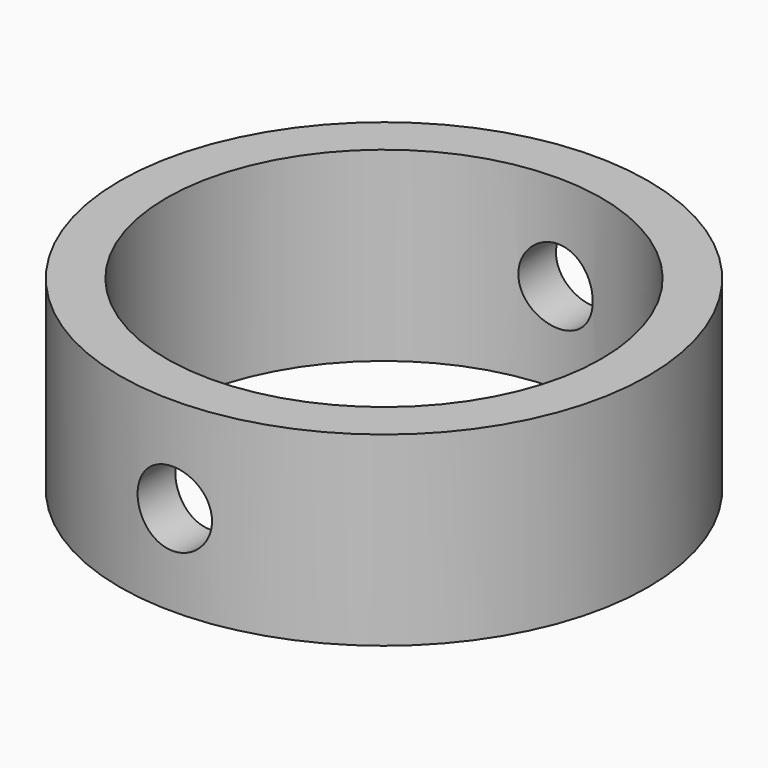
from build123d import *

# Parameters (mm, degrees)
F0_R     = 18.034
F0_R_2   = 14.859
F1_DEPTH = 12.7
F2_R     = 2.54
F3_DEPTH = 50.8
F4_DEPTH = 50.8


with BuildPart() as f1:
    # F0 (on Top) → F1 (new body)
    with BuildSketch(Plane.XY):
        Circle(F0_R)
        Circle(F0_R_2, mode=Mode.SUBTRACT)
    extrude(amount=F1_DEPTH)

    # F2 (on Front) → F3 (cut)
    with BuildSketch(Plane.XZ):
        with Locations((0, 6.187824)):
            Circle(F2_R)
    extrude(amount=-F3_DEPTH, mode=Mode.SUBTRACT)

    # F2 (on Front) → F4 (cut)
    with BuildSketch(Plane.XZ):
        with Locations((0, 6.187824)):
            Circle(F2_R)
    extrude(amount=F4_DEPTH, mode=Mode.SUBTRACT)


solid = f1.part
